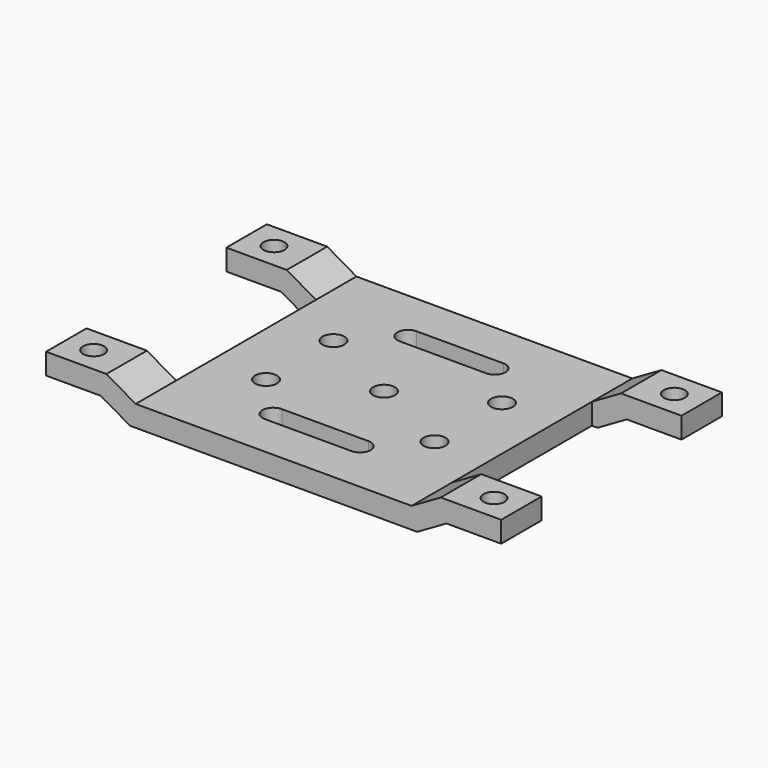
from build123d import *

# Parameters (mm, degrees)
SKETCH007_W         = 65.5
SKETCH007_H         = 65.5
SKETCH007_R         = 2.6
PAD005_DEPTH        = 5
PAD006_DEPTH        = 12
HOLE_D              = 5
HOLE_DEPTH          = 25
HOLE_CSINK_D        = 7
HOLE_CSINK_ANGLE    = 80
PAD007_DEPTH        = 12
HOLE001_D           = 5
HOLE001_DEPTH       = 25
HOLE001_CSINK_D     = 7
HOLE001_CSINK_ANGLE = 80


with BuildPart() as part:
    # Sketch007 (on Face1 of Binder) → Pad005 (new body)
    with BuildSketch(Plane.XY.offset(78)):
        Rectangle(SKETCH007_W, SKETCH007_H)
        with Locations((-20, -10)):
            Circle(SKETCH007_R, mode=Mode.SUBTRACT)
        with Locations((20, -10)):
            Circle(SKETCH007_R, mode=Mode.SUBTRACT)
        with Locations((-20, 10)):
            Circle(SKETCH007_R, mode=Mode.SUBTRACT)
        with Locations((20, 10)):
            Circle(SKETCH007_R, mode=Mode.SUBTRACT)
        Circle(SKETCH007_R, mode=Mode.SUBTRACT)
        with BuildLine():
            ThreePointArc((-10.3, -17.45), (-12.85, -20), (-10.3, -22.55))
            Line((-10.3, -22.55), (10.3, -22.55))
            ThreePointArc((10.3, -22.55), (12.85, -20), (10.3, -17.45))
            Line((-10.3, -17.45), (10.3, -17.45))
        make_face(mode=Mode.SUBTRACT)
        with BuildLine():
            ThreePointArc((10.3, 17.45), (12.85, 20), (10.3, 22.55))
            Line((10.3, 22.55), (-10.3, 22.55))
            ThreePointArc((-10.3, 22.55), (-12.85, 20), (-10.3, 17.45))
            Line((10.3, 17.45), (-10.3, 17.45))
        make_face(mode=Mode.SUBTRACT)
    extrude(amount=PAD005_DEPTH)

    # Sketch008 (on Face4 of Pad005) → Pad006 (join)
    with BuildSketch(Plane(origin=(0, 32.75, 0), x_dir=(-1, 0, 0), z_dir=(0, 1, 0))):
        Polygon((-39.678203, 87), (-54.017949, 87), (-54.017949, 82), (-41.017949, 82), (-34.089746, 78), (-32.75, 78), (-32.75, 83), align=None)
        Polygon((39.678203, 87), (54.017949, 87), (54.017949, 82), (41.017949, 82), (34.089746, 78), (32.75, 78), (32.75, 83), align=None)
    extrude(amount=-PAD006_DEPTH)

    # Hole
    with Locations(Plane(origin=(0, 0, 82), x_dir=(1, 0, 0), z_dir=(0, 0, -1))):
        with Locations((-47.517949, -26.75), (47.517949, -26.75)):
            CounterSinkHole(HOLE_D / 2, HOLE_CSINK_D / 2, depth=HOLE_DEPTH, counter_sink_angle=HOLE_CSINK_ANGLE)

    # Sketch010 (on Face3 of Hole) → Pad007 (join)
    with BuildSketch(Plane.XZ.offset(32.75)):
        Polygon((-32.75, 83), (-39.678203, 87), (-54.017949, 87), (-54.017949, 82), (-41.017949, 82), (-34.089746, 78), (-32.75, 78), align=None)
        Polygon((32.75, 78), (32.75, 83), (39.678203, 87), (54.017949, 87), (54.017949, 82), (41.017949, 82), (34.089746, 78), align=None)
    extrude(amount=-PAD007_DEPTH)

    # Hole001
    with Locations(Plane(origin=(0, 0, 82), x_dir=(1, 0, 0), z_dir=(0, 0, -1))):
        with Locations((-47.517949, 26.75), (47.517949, 26.75)):
            CounterSinkHole(HOLE001_D / 2, HOLE001_CSINK_D / 2, depth=HOLE001_DEPTH, counter_sink_angle=HOLE001_CSINK_ANGLE)


solid = part.part
